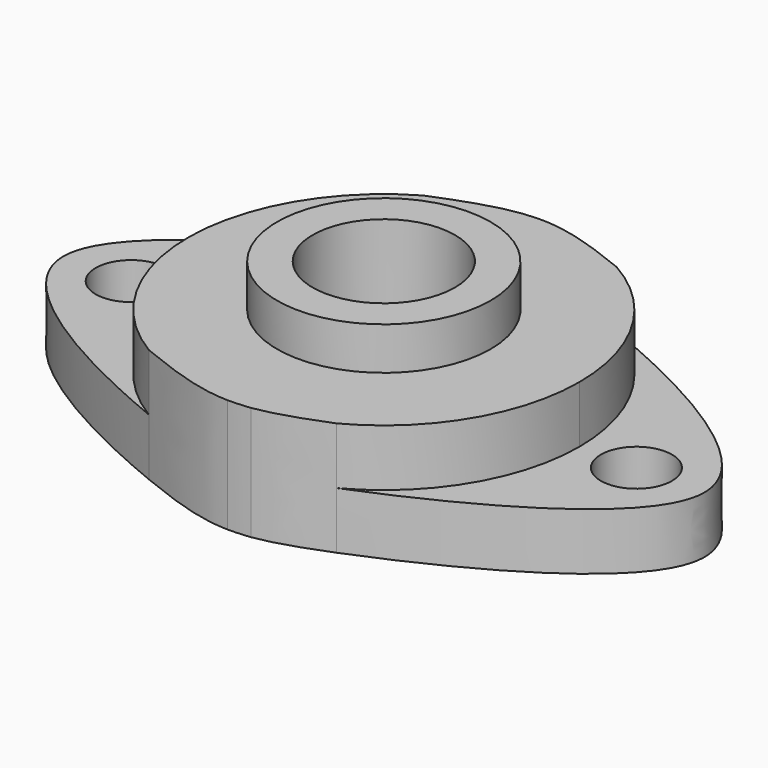
from build123d import *

# Parameters (mm, degrees)
F0_R     = 5
F1_DEPTH = 8
F0_R_2   = 15
F2_DEPTH = 16
F0_R_3   = 10
F3_DEPTH = 22


with BuildPart() as f1:
    # F0 (on Top) → F1 (new body)
    with BuildSketch(Plane.XY):
        with BuildLine():
            ThreePointArc((-14.128437921, -23.593160914), (-27.4985146505, 0.2858181561), (-13.6349863045, 23.8817325267))
            add(Edge.make_bspline(
                [(-13.6349863045, 23.8817325267), (-24.80887432, 19.3175732433), (-64.9074286316, -0.0208843712), (-25.3732238209, -18.9980920778), (-14.128437921, -23.593160914)],
                knots=[0.0936300618, 0.0936300618, 0.0936300618, 0.0936300618, 0.2501498665, 0.4055392908, 0.4055392908, 0.4055392908, 0.4055392908], degree=3))
        make_face()
        with Locations((-35.5, 0)):
            Circle(F0_R, mode=Mode.SUBTRACT)
    extrude(amount=F1_DEPTH)



with BuildPart() as f1b:
    # F0 (on Top) → F1, piece 2 (new body)
    with BuildSketch(Plane.XY):
        with BuildLine():
            add(Edge.make_bspline(
                [(12.8034054524, -24.3376828976), (23.9154797228, -19.8963977435), (65.6301130949, 0.0418102706), (24.8166936559, 19.3644997944), (13.6114848151, 23.8951350933)],
                knots=[0.5915126143, 0.5915126143, 0.5915126143, 0.5915126143, 0.7498837302, 0.9064567635, 0.9064567635, 0.9064567635, 0.9064567635], degree=3))
            ThreePointArc((13.6114848151, 23.8951350933), (23.7756790904, 13.8190840432), (27.5, 0))
            ThreePointArc((27.5, 0), (23.5408543806, -14.2154203255), (12.8034054524, -24.3376828976))
        make_face()
        with Locations((35.5, 0)):
            Circle(F0_R, mode=Mode.SUBTRACT)
    extrude(amount=F1_DEPTH)


with BuildPart() as f1_1:
    add(f1.part)

    add(f1b.part)  # F2 merges F1b
    # F0 (on Top) → F2 (join)
    with BuildSketch(Plane.XY):
        with BuildLine():
            add(Edge.make_bspline(
                [(13.6114848151, 23.8951350933), (6.9170274268, 26.6019248892), (3.4653354317, 27.4970657947), (0, 27.5)],
                knots=[0.9064567635, 0.9064567635, 0.9064567635, 0.9064567635, 1, 1, 1, 1], degree=3))
            add(Edge.make_bspline(
                [(0, 27.5), (-3.4685519028, 27.5029369288), (-6.9507725812, 26.6120101235), (-13.6349863045, 23.8817325267)],
                knots=[0, 0, 0, 0, 0.0936300618, 0.0936300618, 0.0936300618, 0.0936300618], degree=3))
            ThreePointArc((-13.6349863045, 23.8817325267), (-27.4985146505, 0.2858181561), (-14.128437921, -23.593160914))
            add(Edge.make_bspline(
                [(-14.128437921, -23.593160914), (-7.2216478267, -26.4155513269), (-3.503029764, -27.4047401273), (0, -27.5)],
                knots=[0.4055392908, 0.4055392908, 0.4055392908, 0.4055392908, 0.5009828275, 0.5009828275, 0.5009828275, 0.5009828275], degree=3))
            ThreePointArc((0, -27.5), (1.5905265483, -27.453965566), (3.1757280792, -27.3160163854))
            add(Edge.make_bspline(
                [(3.1757280792, -27.3160163854), (5.6032444341, -26.9627476234), (8.4443384991, -26.079919214), (12.8034054524, -24.3376828976)],
                knots=[0.5293864729, 0.5293864729, 0.5293864729, 0.5293864729, 0.5915126143, 0.5915126143, 0.5915126143, 0.5915126143], degree=3))
            ThreePointArc((12.8034054524, -24.3376828976), (23.5408543806, -14.2154203255), (27.5, 0))
            ThreePointArc((27.5, 0), (23.7756790904, 13.8190840432), (13.6114848151, 23.8951350933))
        make_face()
        Circle(F0_R_2, mode=Mode.SUBTRACT)
    extrude(amount=F2_DEPTH)

    # F0 (on Top) → F3 (join)
    with BuildSketch(Plane.XY):
        Circle(F0_R_2)
        Circle(F0_R_3, mode=Mode.SUBTRACT)
    extrude(amount=F3_DEPTH)


solid = f1_1.part
